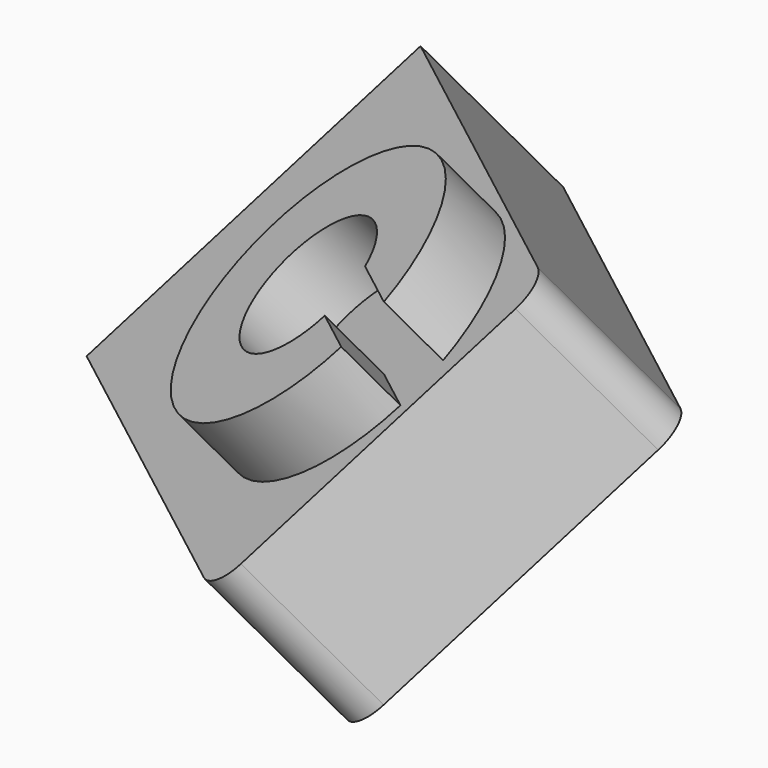
from build123d import *

# Parameters (mm, degrees)
F1_DEPTH = 106
F2_DEPTH = 150
F3_ANGLE = 30
F4_ANGLE = 30
F5_ANGLE = 30


with BuildPart() as f1:
    # F0 (on Top) → F1 (new body)
    with BuildSketch(Plane.XY):
        with BuildLine():
            Line((340, 185), (20, 185))
            Line((20, 185), (20, -40))
            Line((20, -40), (340, -40))
            ThreePointArc((340, -40), (354.1421356237, -34.1421356237), (360, -20))
            Line((360, -20), (360, 165))
            ThreePointArc((360, 165), (354.1421356237, 179.1421356237), (340, 185))
        make_face()
        with BuildLine():
            ThreePointArc((350, 90), (171.2961296312, 74.7808219147), (344.8528137424, 120))
            Line((344.8528137424, 120), (293.5410196625, 120))
            ThreePointArc((293.5410196625, 120), (217.9622438467, 73.9430059602), (305, 90))
            Line((305, 90), (350, 90))
        make_face(mode=Mode.SUBTRACT)
        with BuildLine():
            Line((293.5410196625, 120), (344.8528137424, 120))
            ThreePointArc((344.8528137424, 120), (171.2961296312, 74.7808219147), (350, 90))
            Line((350, 90), (305, 90))
            ThreePointArc((305, 90), (217.9622438467, 73.9430059602), (293.5410196625, 120))
        make_face()
    extrude(amount=F1_DEPTH)

    # F0 (on Top) → F2 (join)
    with BuildSketch(Plane.XY):
        with BuildLine():
            Line((293.5410196625, 120), (344.8528137424, 120))
            ThreePointArc((344.8528137424, 120), (171.2961296312, 74.7808219147), (350, 90))
            Line((350, 90), (305, 90))
            ThreePointArc((305, 90), (217.9622438467, 73.9430059602), (293.5410196625, 120))
        make_face()
    extrude(amount=F2_DEPTH)


with BuildPart() as f1_1:
    # F3: moved
    add(f1.part.rotate(Axis((180, -40, 0), (1, 0, 0)), F3_ANGLE))


with BuildPart() as f1_2:
    # F4: moved
    add(f1_1.part.rotate(Axis((20, 4.4278579257, 148.0486928012), (0, -0.8660254038, -0.5)), F4_ANGLE))


with BuildPart() as f1_3:
    # F5: moved
    add(f1_2.part.rotate(Axis((46.5, -70.0503267997, 52.0486928012), (0.5, 0.4330127019, -0.75)), F5_ANGLE))


solid = f1_3.part
